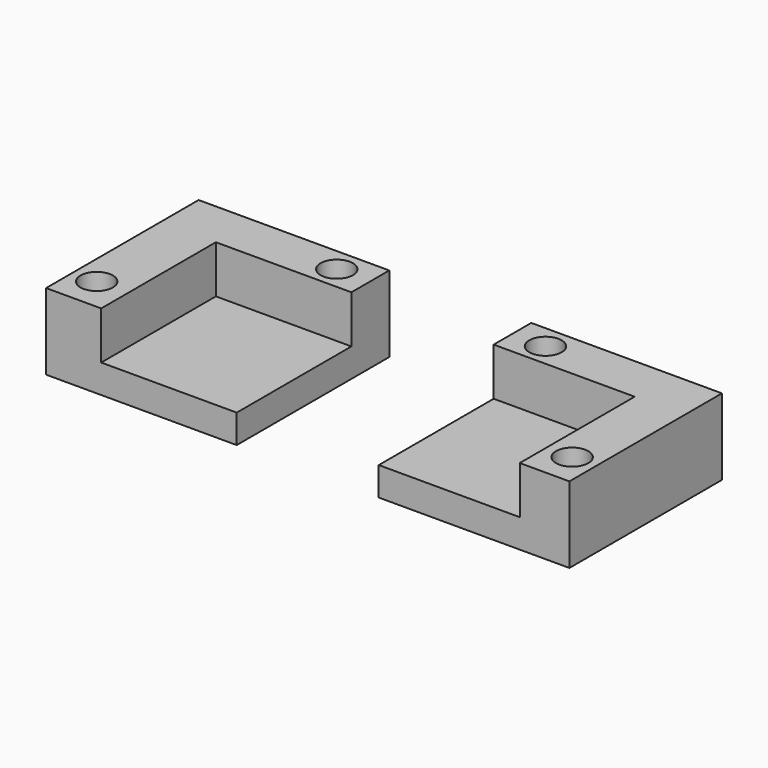
from build123d import *

# Parameters (mm, degrees)
F0_W     = 20
F0_H     = 20
F1_DEPTH = 8
F2_W     = 14.218063
F2_H     = 15.036273
F3_DEPTH = 5
F4_W     = 20
F4_H     = 20
F5_DEPTH = 8
F6_W     = 14.792317
F6_H     = 15.069305
F7_DEPTH = 5
F8_R     = 1.7
F9_DEPTH = 8.6


with BuildPart() as f1:
    # F0 (on Top) → F1 (new body)
    with BuildSketch(Plane.XY):
        Rectangle(F0_W, F0_H)
    extrude(amount=F1_DEPTH)

    # F2 (on face) → F3 (cut)
    with BuildSketch(Plane.XY.offset(8)):
        with Locations((2.890969, -2.481864)):
            Rectangle(F2_W, F2_H)
    extrude(amount=-F3_DEPTH, mode=Mode.SUBTRACT)


with BuildPart() as f5:
    # F4 (on Top) → F5 (new body)
    with BuildSketch(Plane.XY):
        with Locations((34.897734, 0)):
            Rectangle(F4_W, F4_H)
    extrude(amount=F5_DEPTH)

    # F6 (on face) → F7 (cut)
    with BuildSketch(Plane.XY.offset(8)):
        with Locations((32.293892, -2.465348)):
            Rectangle(F6_W, F6_H)
    extrude(amount=-F7_DEPTH, mode=Mode.SUBTRACT)


with BuildPart() as f9_tool:
    # F8 (on Top) → F9 (new body)
    with BuildSketch(Plane.XY):
        with Locations((-7.49, -6.5)):
            Circle(F8_R)
        with Locations((6.500113, 7.49)):
            Circle(F8_R)
        with Locations((28.397734, 7.49)):
            Circle(F8_R)
        with Locations((42.388041, -6.5)):
            Circle(F8_R)
    extrude(amount=F9_DEPTH)


with BuildPart() as f1_1:
    add(f1.part)

    # F9: cut by f9_tool
    add(f9_tool.part, mode=Mode.SUBTRACT)


with BuildPart() as f5_1:
    add(f5.part)

    # F9: cut by f9_tool
    add(f9_tool.part, mode=Mode.SUBTRACT)


solid = Compound([f1_1.part, f5_1.part])
